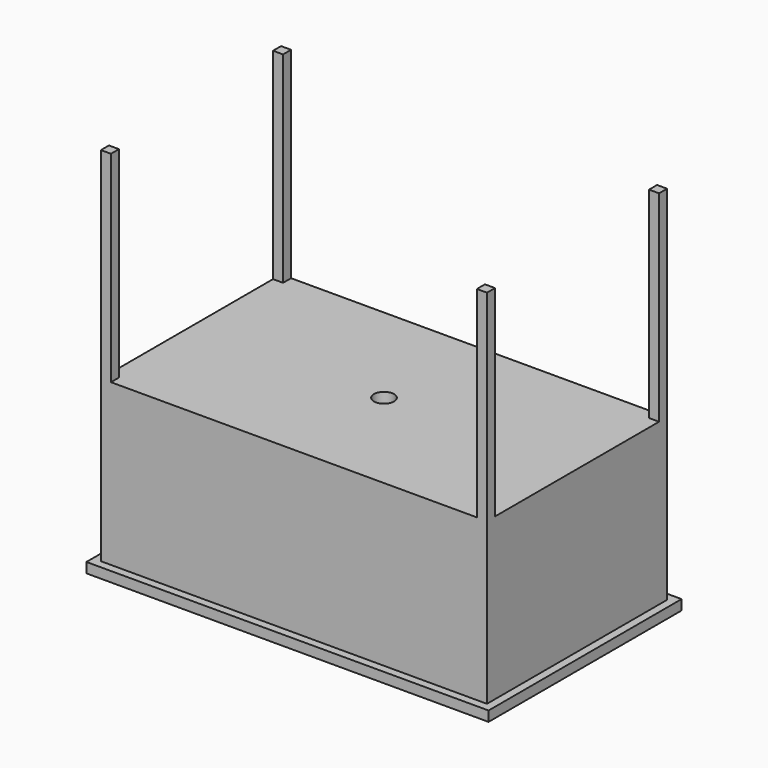
from build123d import *

# Parameters (mm, degrees)
F0_W     = 1000
F0_H     = 600
F1_DEPTH = 25
F2_W     = 960
F2_H     = 560
F3_DEPTH = 400
F4_W     = 940
F4_H     = 540
F5_DEPTH = 380
F6_W     = 25
F6_H     = 25
F7_DEPTH = 500
F8_R     = 25
F9_DEPTH = 100


with BuildPart() as f1:
    # F0 (on Top) → F1 (new body)
    with BuildSketch(Plane.XY):
        Rectangle(F0_W, F0_H)
    extrude(amount=F1_DEPTH)

    # F2 (on face) → F3 (join)
    with BuildSketch(Plane.XY.offset(25)):
        Rectangle(F2_W, F2_H)
    extrude(amount=F3_DEPTH)

    # F4 (on face) → F5 (cut)
    with BuildSketch(Plane(origin=(0, 0, 0), x_dir=(1, 0, 0), z_dir=(0, 0, -1))):
        Rectangle(F4_W, F4_H)
    extrude(amount=-F5_DEPTH, mode=Mode.SUBTRACT)

    # F6 (on face) → F7 (join)
    with BuildSketch(Plane.XY.offset(425)):
        with Locations((-467.5, 267.5)):
            Rectangle(F6_W, F6_H)
        with Locations((-467.5, -267.5)):
            Rectangle(F6_W, F6_H)
        with Locations((467.5, -267.5)):
            Rectangle(F6_W, F6_H)
        with Locations((467.5, 267.5)):
            Rectangle(F6_W, F6_H)
    extrude(amount=F7_DEPTH)

    # F8 (on face) → F9 (cut)
    with BuildSketch(Plane(origin=(0, 0, 380), x_dir=(1, 0, 0), z_dir=(0, 0, -1))):
        Circle(F8_R)
    extrude(amount=-F9_DEPTH, mode=Mode.SUBTRACT)


solid = f1.part
